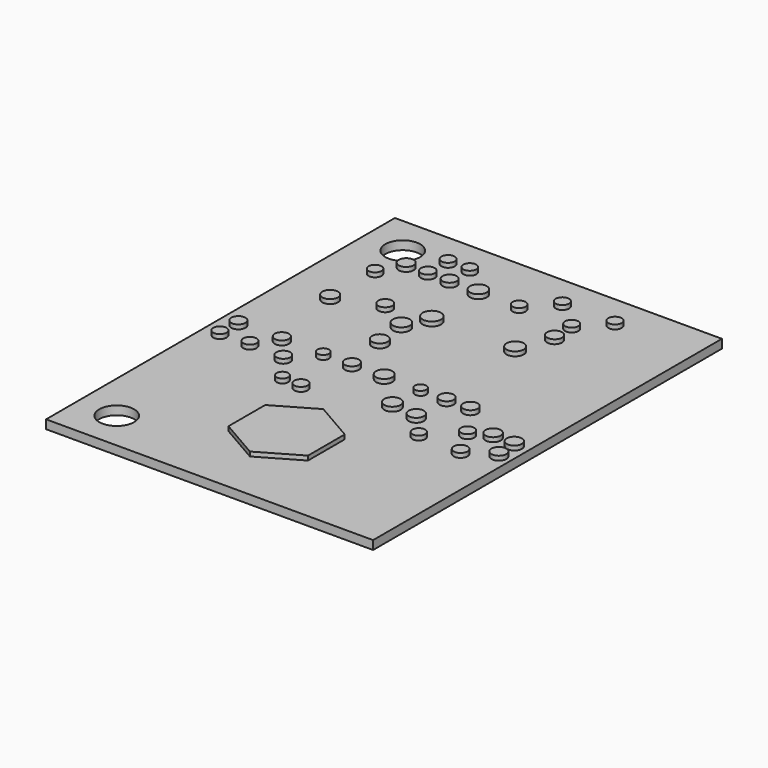
from build123d import *

# Parameters (mm, degrees)
F0_W     = 75
F0_H     = 100
F0_R     = 4
F1_DEPTH = 2
F2_R     = 1.584077
F2_R_2   = 1.709737
F2_R_3   = 1.732285
F2_R_4   = 1.739733
F2_R_5   = 1.525849
F2_R_6   = 1.456457
F2_R_7   = 1.732284
F2_R_8   = 1.660922
F2_R_9   = 1.609722
F2_R_10  = 1.290227
F2_R_11  = 1.875683
F2_R_12  = 1.517347
F2_R_13  = 1.874836
F2_R_14  = 1.624248
F2_R_15  = 1.319184
F2_R_16  = 1.584076
F2_R_17  = 1.326308
F2_R_18  = 1.625082
F2_R_19  = 1.798229
F2_R_20  = 1.936752
F2_R_21  = 2.097076
F2_R_22  = 1.963284
F2_R_23  = 1.709734
F2_R_24  = 1.517348
F2_R_25  = 1.525848
F2_R_26  = 1.482857
F2_R_27  = 1.936751
F2_R_28  = 1.608384
F2_R_29  = 1.482858
F2_R_30  = 1.709736
F2_R_31  = 1.608385
F3_DEPTH = 1


with BuildPart() as f1:
    # F0 (on Top) → F1 (new body)
    with BuildSketch(Plane.XY):
        Rectangle(F0_W, F0_H)
        with Locations((-28.5, -41)):
            Circle(F0_R, mode=Mode.SUBTRACT)
        with Locations((-28.5, 41)):
            Circle(F0_R, mode=Mode.SUBTRACT)
        Rectangle(F0_W, F0_H)
        with Locations((-28.5, -41)):
            Circle(F0_R, mode=Mode.SUBTRACT)
        with Locations((-28.5, 41)):
            Circle(F0_R, mode=Mode.SUBTRACT)
    extrude(amount=F1_DEPTH)

    # F2 (on face) → F3 (join)
    with BuildSketch(Plane.XY.offset(2)):
        Polygon((-9.121194, -22.654161), (-9.121194, -33.186409), (0, -38.452533), (9.121194, -33.186409), (9.121194, -22.654161), (0, -17.388037), align=None)
        with Locations((28.836682, -14.088176)):
            Circle(F2_R)
        with Locations((34.787707, -10.549731)):
            Circle(F2_R_2)
        with Locations((34.466032, -5.724576)):
            Circle(F2_R_3)
        with Locations((29.480038, -5.563737)):
            Circle(F2_R_4)
        with Locations((25.298238, -7.654637)):
            Circle(F2_R_5)
        with Locations((18.864698, -13.60566)):
            Circle(F2_R_6)
        with Locations((14.039545, -8.29799)):
            Circle(F2_R_7)
        with Locations((19.82973, 0)):
            Circle(F2_R_8)
        with Locations((14.361222, 0)):
            Circle(F2_R_9)
        with Locations((8.410199, 0)):
            Circle(F2_R_10)
        with Locations((7.927684, -7.493799)):
            Circle(F2_R_11)
        with Locations((-9.442871, -11.997276)):
            Circle(F2_R_12)
        with Locations((0.046599, 0)):
            Circle(F2_R_13)
        with Locations((-7.351971, 0)):
            Circle(F2_R_14)
        with Locations((-13.946348, 0)):
            Circle(F2_R_15)
        with Locations((-18.771502, -5.402898)):
            Circle(F2_R_16)
        with Locations((-26.813426, -4.920383)):
            Circle(F2_R_12)
        with Locations((-13.946348, -11.675598)):
            Circle(F2_R_17)
        with Locations((-23.435817, 0)):
            Circle(F2_R_18)
        with Locations((-33.407803, 0)):
            Circle(F2_R_18)
        with Locations((-33.568642, -5.081222)):
            Circle(F2_R_12)
        with Locations((-9.121194, 10.198432)):
            Circle(F2_R_19)
        with Locations((-10.086225, 17.597001)):
            Circle(F2_R_20)
        with Locations((-7.351971, 22.904672)):
            Circle(F2_R_21)
        with Locations((11.626968, 23.065509)):
            Circle(F2_R_22)
        with Locations((14.36122, 30.946596)):
            Circle(F2_R_23)
        with Locations((14.039546, 36.254264)):
            Circle(F2_R_24)
        with Locations((19.347215, 42.04445)):
            Circle(F2_R_25)
        with Locations((7.28433, 42.04445)):
            Circle(F2_R_5)
        with Locations((1.976661, 36.254264)):
            Circle(F2_R_26)
        with Locations((-7.351971, 36.254264)):
            Circle(F2_R_27)
        with Locations((-13.946348, 36.254264)):
            Circle(F2_R_28)
        with Locations((-13.946348, 42.04445)):
            Circle(F2_R_29)
        with Locations((-18.932341, 42.04445)):
            Circle(F2_R_12)
        with Locations((-18.932341, 36.254264)):
            Circle(F2_R_16)
        with Locations((-23.918333, 36.254264)):
            Circle(F2_R_30)
        with Locations((-26.813426, 30.946596)):
            Circle(F2_R_26)
        with Locations((-26.813426, 18.079517)):
            Circle(F2_R_19)
        with Locations((-17.002279, 21.617964)):
            Circle(F2_R_31)
    extrude(amount=F3_DEPTH)


solid = f1.part
